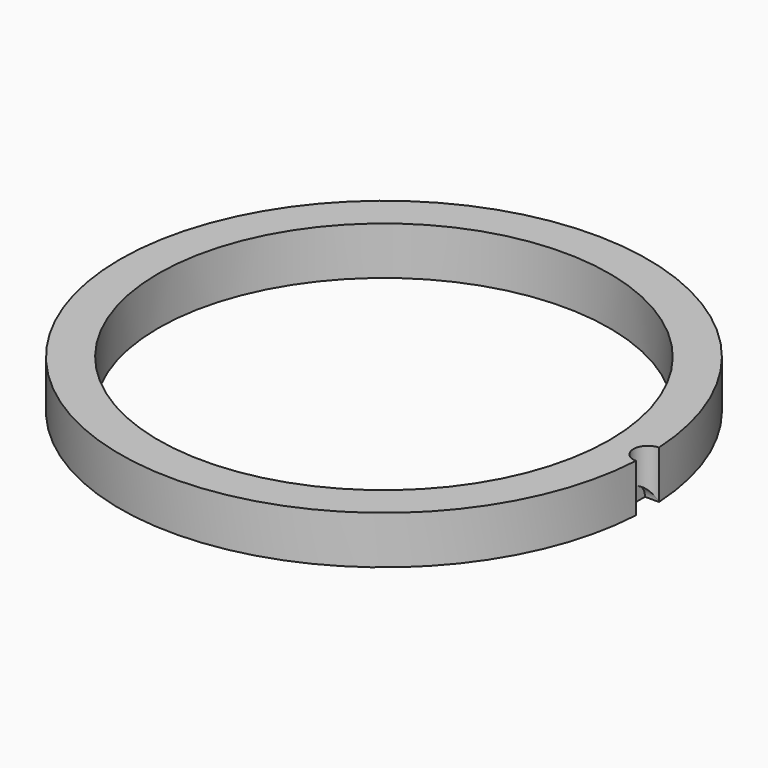
from build123d import *

# Parameters (mm, degrees)
SKETCH_R        = 27.5
SKETCH_R_2      = 23.5
PAD_DEPTH       = 5
SKETCH001_R     = 1.5
POCKET_DEPTH    = 10
SKETCH002_R     = 1.5
POCKET001_DEPTH = 1.5


with BuildPart() as part:
    # Sketch → Pad (new body)
    with BuildSketch(Plane.XY):
        Circle(SKETCH_R)
        Circle(SKETCH_R_2, mode=Mode.SUBTRACT)
    extrude(amount=PAD_DEPTH)

    # Sketch001 → Pocket (cut)
    with BuildSketch(Plane(origin=(27.5, 0, 0), x_dir=(1, 0, 0), z_dir=(0, 0, 1))):
        Circle(SKETCH001_R)
    extrude(amount=POCKET_DEPTH, mode=Mode.SUBTRACT)

    # Sketch002 → Pocket001 (cut)
    with BuildSketch(Plane.YZ.offset(27.5)):
        Circle(SKETCH002_R)
    extrude(amount=-POCKET001_DEPTH, mode=Mode.SUBTRACT)


solid = part.part
